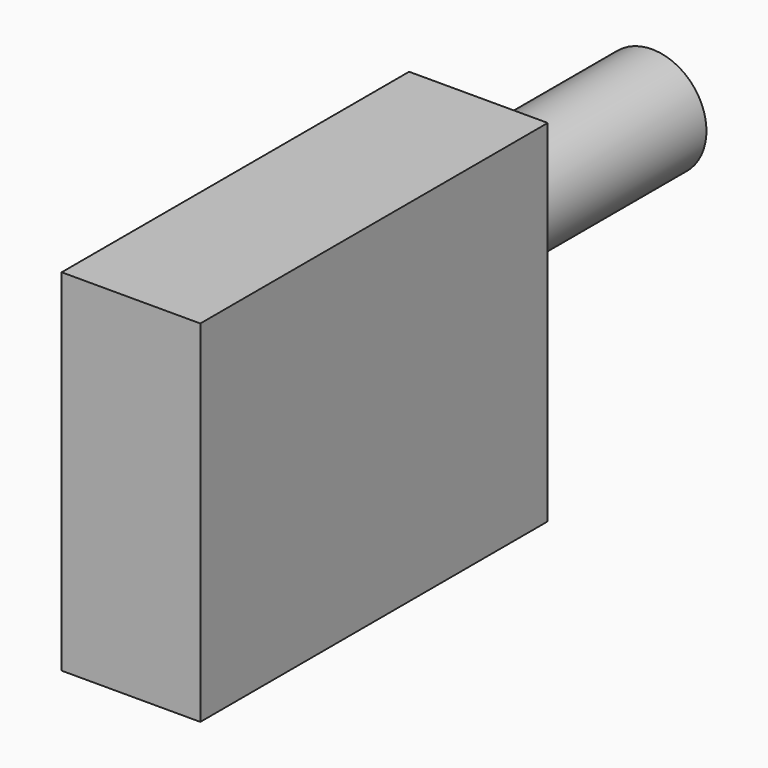
from build123d import *

# Parameters (mm, degrees)
F0_W     = 26
F0_H     = 21
F1_DEPTH = 4.15
F2_R     = 3.25
F3_DEPTH = 13


with BuildPart() as f1:
    # F0 (on Right) → F1 (new body, symmetric)
    with BuildSketch(Plane.YZ):
        Rectangle(F0_W, F0_H)
    extrude(amount=F1_DEPTH, both=True)

    # F2 (on face) → F3 (join)
    with BuildSketch(Plane(origin=(0, 13, 0), x_dir=(-1, 0, 0), z_dir=(0, 1, 0))):
        with Locations((0, 4.5)):
            Circle(F2_R)
    extrude(amount=F3_DEPTH)


solid = f1.part
